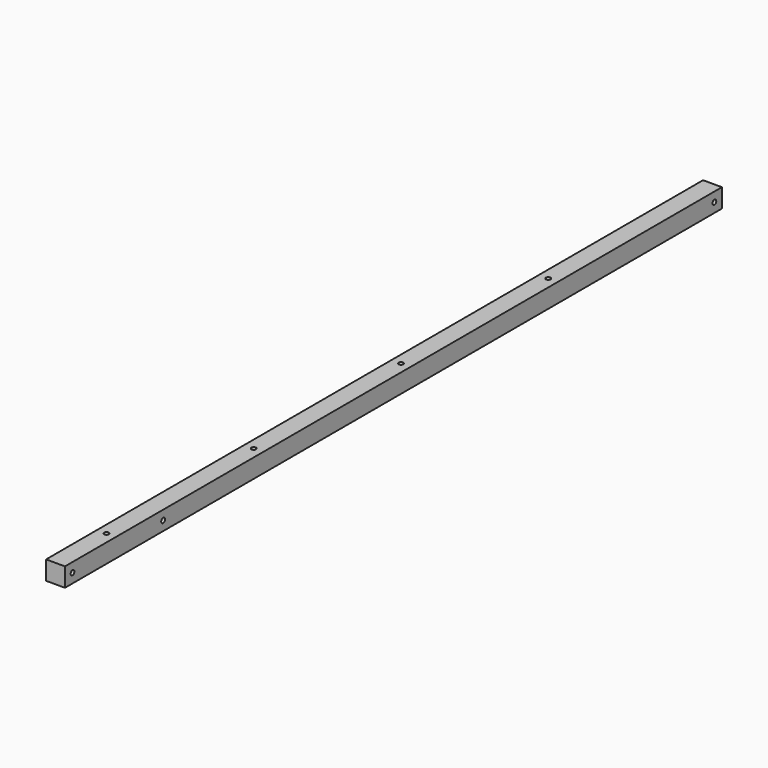
from build123d import *

# Parameters (mm, degrees)
F0_W     = 25.4
F0_H     = 25.4
F1_DEPTH = 1104.9
F2_R     = 3.175
F3_DEPTH = 25.4
F4_R     = 3.175
F5_DEPTH = 25.4


with BuildPart() as f1:
    # F0 (on Front) → F1 (new body)
    with BuildSketch(Plane.XZ):
        Rectangle(F0_W, F0_H)
    extrude(amount=-F1_DEPTH)

    # F2 (on face) → F3 (cut, through all)
    with BuildSketch(Plane(origin=(-12.7, 0, 0), x_dir=(0, -1, 0), z_dir=(-1, 0, 0))):
        with Locations((-12.7, 0)):
            Circle(F2_R)
        with Locations((-165.1, 0)):
            Circle(F2_R)
        with Locations((-1092.2, 0)):
            Circle(F2_R)
    extrude(amount=-F3_DEPTH, mode=Mode.SUBTRACT)

    # F4 (on face) → F5 (cut, through all)
    with BuildSketch(Plane.XY.offset(12.7)):
        with Locations((0, 85.725)):
            Circle(F4_R)
        with Locations((0, 333.375)):
            Circle(F4_R)
        with Locations((0, 581.025)):
            Circle(F4_R)
        with Locations((0, 828.675)):
            Circle(F4_R)
    extrude(amount=-F5_DEPTH, mode=Mode.SUBTRACT)


solid = f1.part
